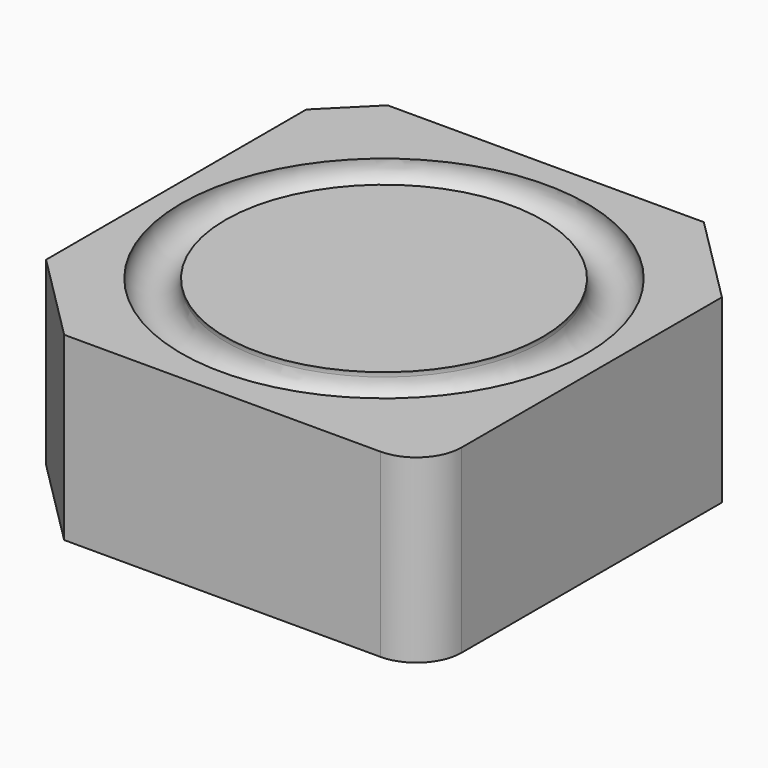
from build123d import *

# Parameters (mm, degrees)
SKETCH_W        = 10
SKETCH_H        = 10.2
PAD_DEPTH       = 4
FILLET_R        = 1
CHAMFER_SIZE    = 1
CHAMFER001_SIZE = 2
SKETCH002_R     = 0.5


with BuildPart() as part:
    # Sketch → Pad (new body)
    with BuildSketch(Plane.XY.offset(0.1)):
        Rectangle(SKETCH_W, SKETCH_H)
    extrude(amount=PAD_DEPTH)

    # Fillet
    fillet_edges = [part.edges().sort_by_distance(p)[0] for p in [
        (5, -5.1, 2.1),
    ]]
    fillet(fillet_edges, radius=FILLET_R)

    # Chamfer
    chamfer_edges = [part.edges().sort_by_distance(p)[0] for p in [
        (-5, 5.1, 2.1),
    ]]
    chamfer(chamfer_edges, length=CHAMFER_SIZE)

    # Chamfer001
    chamfer001_edges = [part.edges().sort_by_distance(p)[0] for p in [
        (5, 5.1, 2.1),
        (-5, -5.1, 2.1),
    ]]
    chamfer(chamfer001_edges, length=CHAMFER001_SIZE)

    # Sketch002 → Groove (revolve, cut)
    with BuildSketch(Plane.XZ):
        with Locations((-4, 4)):
            Circle(SKETCH002_R)
    revolve(axis=Axis((0, 0, 0), (0, 0, 1)), mode=Mode.SUBTRACT)


solid = part.part
